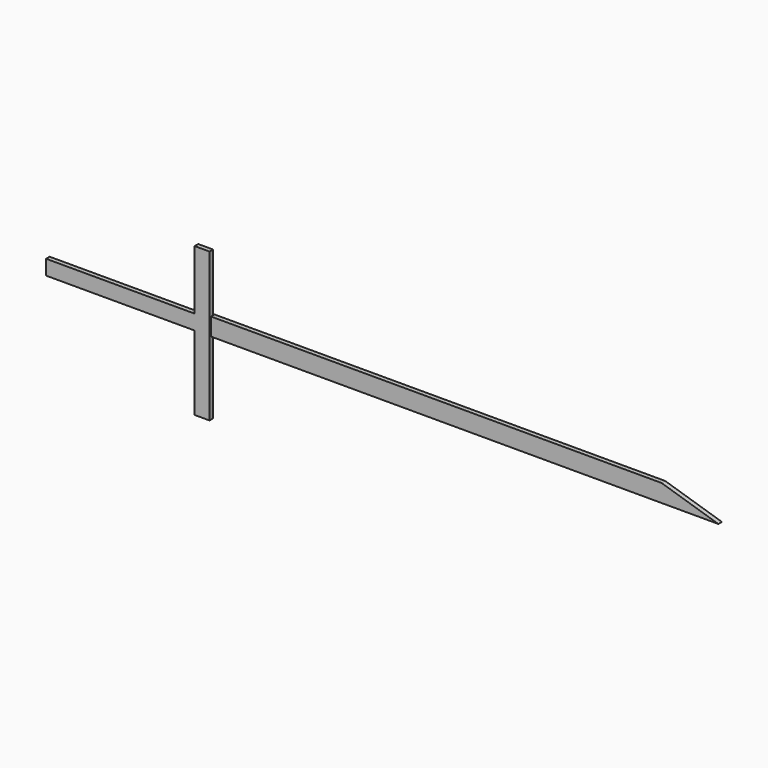
from build123d import *

# Parameters (mm, degrees)
F3_DEPTH = 0.762
F4_DEPTH = 0.762
F0_W     = 25.4
F0_H     = 2.54
F5_DEPTH = 0.762


with BuildPart() as f3:
    # F2 (on Front) → F3 (new body)
    with BuildSketch(Plane.XZ):
        Polygon((-41.475203, 3.01335), (-41.475203, 0), (34.724797, 0), (45.189403, 0), (35.486552, 3.01335), align=None)
    extrude(amount=F3_DEPTH)


with BuildPart() as f4:
    # F1 (on Front) → F4 (new body)
    with BuildSketch(Plane.XZ):
        Polygon((-44.260852, 12.7), (-44.260852, 0), (-44.260852, -12.7), (-41.720852, -12.7), (-41.720852, 12.7), align=None)
    extrude(amount=F4_DEPTH)

    # F0 (on Front) → F5 (join)
    with BuildSketch(Plane.XZ):
        with Locations((-56.941203, 1.27)):
            Rectangle(F0_W, F0_H)
    extrude(amount=F5_DEPTH)


solid = Compound([f3.part, f4.part])
